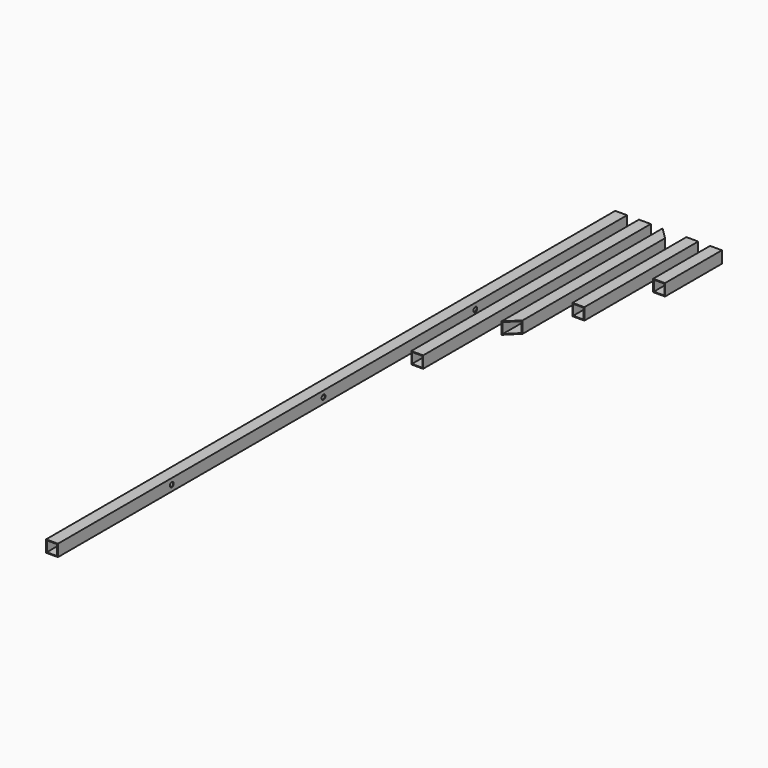
from build123d import *

# Parameters (mm, degrees)
F0_W      = 25
F0_H      = 25
F0_W_2    = 22
F0_H_2    = 22
F1_DEPTH  = 1500
F2_W      = 25
F2_H      = 25
F2_W_2    = 22
F2_H_2    = 22
F3_DEPTH  = 600
F4_W      = 25
F4_H      = 25
F4_W_2    = 22
F4_H_2    = 22
F5_DEPTH  = 425
F7_DEPTH  = 25
F8_W      = 25
F8_H      = 25
F8_W_2    = 22
F8_H_2    = 22
F9_DEPTH  = 300
F10_R     = 5
F11_DEPTH = 25
F12_W     = 25
F12_H     = 25
F12_W_2   = 22
F12_H_2   = 22
F13_DEPTH = 150


with BuildPart() as f1:
    # F0 (on Front) → F1 (new body)
    with BuildSketch(Plane.XZ):
        Rectangle(F0_W, F0_H)
        Rectangle(F0_W_2, F0_H_2, mode=Mode.SUBTRACT)
    extrude(amount=F1_DEPTH)

    # F10 (on face) → F11 (cut)
    with BuildSketch(Plane(origin=(-12.5, 0, 0), x_dir=(0, -1, 0), z_dir=(-1, 0, 0))):
        with Locations((400, 0)):
            Circle(F10_R)
        with Locations((800, 0)):
            Circle(F10_R)
        with Locations((1200, 0)):
            Circle(F10_R)
    extrude(amount=-F11_DEPTH, mode=Mode.SUBTRACT)


with BuildPart() as f3:
    # F2 (on Front) → F3 (new body)
    with BuildSketch(Plane.XZ):
        with Locations((50, 0)):
            Rectangle(F2_W, F2_H)
        with Locations((50, 0)):
            Rectangle(F2_W_2, F2_H_2, mode=Mode.SUBTRACT)
    extrude(amount=F3_DEPTH)


with BuildPart() as f5:
    # F4 (on Front) → F5 (new body)
    with BuildSketch(Plane.XZ):
        with Locations((100, 0)):
            Rectangle(F4_W, F4_H)
        with Locations((100, 0)):
            Rectangle(F4_W_2, F4_H_2, mode=Mode.SUBTRACT)
    extrude(amount=F5_DEPTH)

    # F6 (on face) → F7 (cut)
    with BuildSketch(Plane.XY.offset(12.5)):
        Polygon((87.5, -425), (112.5, -425), (112.5, -400), align=None)
        Polygon((112.5, -25), (112.5, 0), (87.5, 0), align=None)
    extrude(amount=-F7_DEPTH, mode=Mode.SUBTRACT)


with BuildPart() as f9:
    # F8 (on Front) → F9 (new body)
    with BuildSketch(Plane.XZ):
        with Locations((150, 0)):
            Rectangle(F8_W, F8_H)
        with Locations((150, 0)):
            Rectangle(F8_W_2, F8_H_2, mode=Mode.SUBTRACT)
    extrude(amount=F9_DEPTH)


with BuildPart() as f13:
    # F12 (on Front) → F13 (new body)
    with BuildSketch(Plane.XZ):
        with Locations((200, 0)):
            Rectangle(F12_W, F12_H)
        with Locations((200, 0)):
            Rectangle(F12_W_2, F12_H_2, mode=Mode.SUBTRACT)
    extrude(amount=F13_DEPTH)


solid = Compound([f1.part, f3.part, f5.part, f9.part, f13.part])
